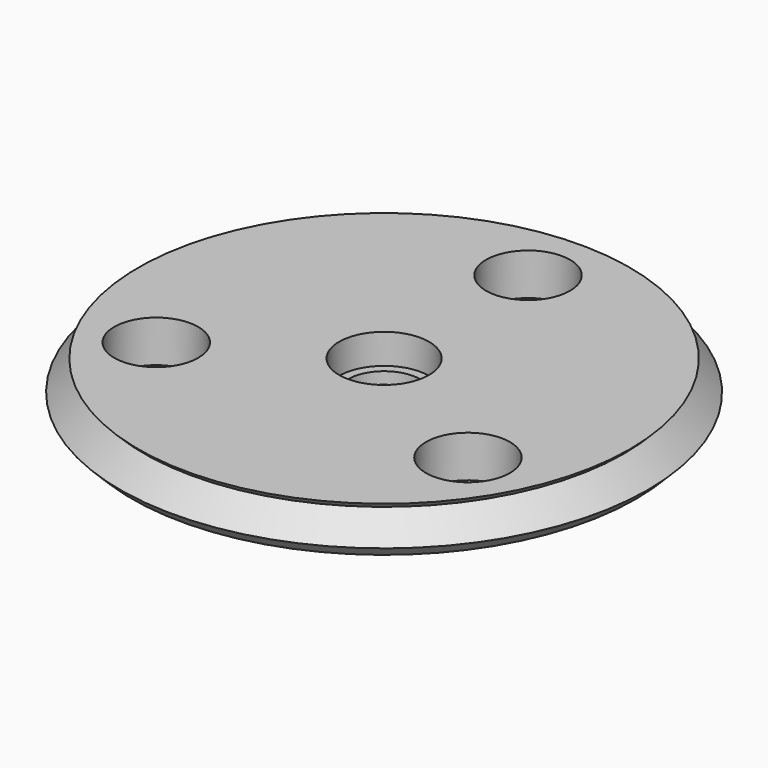
from build123d import *

# Parameters (mm, degrees)
CYLINDER_R     = 1.4
CYLINDER_DEPTH = 10
ARRAY001_COUNT = 3
SKETCH018_W    = 3.15
SKETCH018_H    = 2.3
SKETCH002_W    = 5
SKETCH002_H    = 6.8
ARRAY_Z_COUNT  = 6
ARRAY_Z_PITCH  = 1.6
SKETCH005_W    = 10
SKETCH005_H    = 2.2955317108


with BuildPart() as boltholes:
    # Cylinder → Cylinder (new body)
    with BuildSketch(Plane(origin=(0, 6, -1), x_dir=(1, 0, 0), z_dir=(0, 0, 1))):
        Circle(CYLINDER_R)
    extrude(amount=CYLINDER_DEPTH)

    # Array001: BoltHoles ×3 about axis
    array001_axis = Axis((0, 0, 0), (0, 0, 1))


with BuildPart() as boltholes_1:
    add(boltholes.part)
    for i in range(1, ARRAY001_COUNT):
        add(boltholes.part.rotate(array001_axis, i * 360 / ARRAY001_COUNT))


with BuildPart() as obj1:
    # Sketch018 → Revolution007 (revolve)
    with BuildSketch(Plane.XZ):
        with Locations((1.575, 5.7267413876)):
            Rectangle(SKETCH018_W, SKETCH018_H)
    revolve(axis=Axis((0, 0, 0), (0, 0, 1)))


with BuildPart() as obj2:
    # Sketch007 → Revolution006 (revolve)
    with BuildSketch(Plane.XZ):
        with BuildLine():
            ThreePointArc((1.5, 1.7955317108), (0.867020761, 2.4322916436), (0, 2.6655317108))
            Line((0, 2.6655317108), (0, 0.7955317108))
            Line((0, 0.7955317108), (1.5, 0.7955317108))
            Line((1.5, 1.7955317108), (1.5, 0.7955317108))
        make_face()
    revolve(axis=Axis((0, 0, 0), (0, 0, 1)))


with BuildPart() as obj3:
    # Sketch002 → Revolution002 (revolve)
    with BuildSketch(Plane.XZ):
        with Locations((7.5, 3.8)):
            Rectangle(SKETCH002_W, SKETCH002_H)
    revolve(axis=Axis((0, 0, 0), (0, 0, 1)))


with BuildPart() as innergroovetool:
    # Sketch001 → Revolution001 (revolve)
    with BuildSketch(Plane.XZ):
        Polygon((4, 8), (4, 6.4), (8, 6.4), (8.8, 7.2), (8, 8), align=None)
    revolve(axis=Axis((0, 0, 0), (0, 0, 1)))

    # Array Z: InnerGrooveTool ×6


with BuildPart() as innergroovetool_1:
    add(innergroovetool.part)
    with Locations(*[(0, 0, -i * ARRAY_Z_PITCH) for i in range(1, ARRAY_Z_COUNT)]):
        add(innergroovetool.part)

    # Common: intersect obj3
    add(obj3.part, mode=Mode.INTERSECT)


with BuildPart() as clone_of_boltholes001:
    # Sketch → Revolution (revolve)
    with BuildSketch(Plane.XZ):
        Polygon((1.2, 0.4), (8, 0.4), (8, 7.2), (2.8, 7.2), (1.2, 2.2), align=None)
    revolve(axis=Axis((0, 0, 0), (0, 0, 1)))

    # Fusion001: union InnerGrooveTool
    add(innergroovetool_1.part)

    # Cut: cut obj2
    add(obj2.part, mode=Mode.SUBTRACT)

    # Cut003: cut obj1
    add(obj1.part, mode=Mode.SUBTRACT)

    # Cut001: cut BoltHoles
    add(boltholes_1.part, mode=Mode.SUBTRACT)


with BuildPart() as obj4:
    # Sketch005 → Revolution004 (revolve)
    with BuildSketch(Plane.XZ):
        with Locations((5, 0.6477658554)):
            Rectangle(SKETCH005_W, SKETCH005_H)
    revolve(axis=Axis((0, 0, 0), (0, 0, 1)))

    # Common001: intersect Clone of BoltHoles001
    add(clone_of_boltholes001.part, mode=Mode.INTERSECT)


solid = obj4.part
